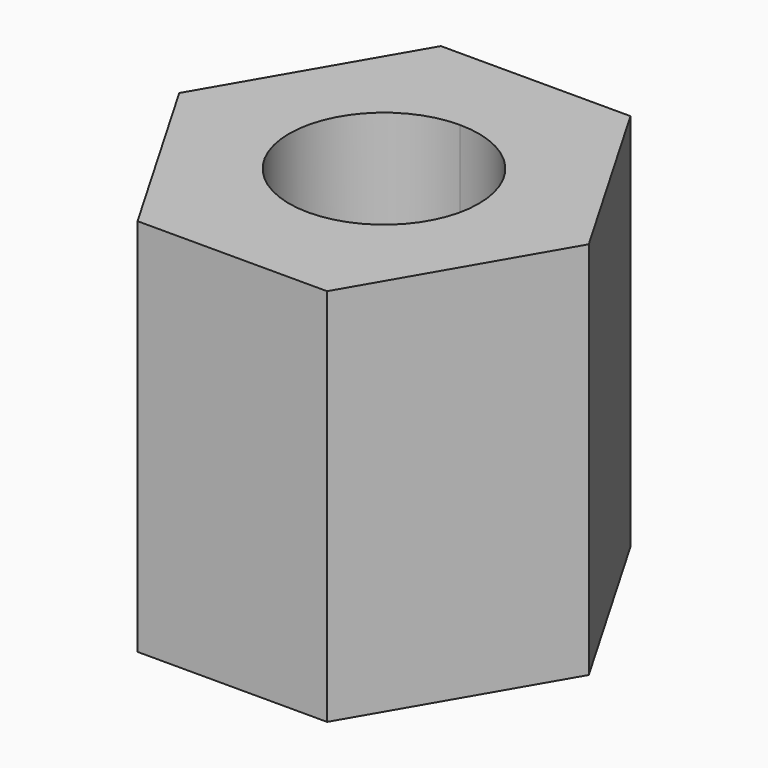
from build123d import *

# Parameters (mm, degrees)
F1_DEPTH = 25.4


with BuildPart() as f1:
    # F0 (on Top) → F1 (new body)
    with BuildSketch(Plane.XY):
        with BuildLine():
            ThreePointArc((0, -6.35), (-6.35, 0), (0, 6.35))
            Line((0, 6.35), (0, 12.7))
            Line((0, 12.7), (-6.35, 12.7))
            Line((-6.35, 12.7), (-13.716, 0))
            Line((-13.716, 0), (-6.35, -12.7))
            Line((-6.35, -12.7), (0, -12.7))
            Line((0, -12.7), (0, -6.35))
        make_face()
        with BuildLine():
            Line((0, 12.7), (0, 6.35))
            ThreePointArc((0, 6.35), (4.490128, 4.490128), (6.35, 0))
            ThreePointArc((6.35, 0), (4.490128, -4.490128), (0, -6.35))
            Line((0, -6.35), (0, -12.7))
            Line((0, -12.7), (6.35, -12.7))
            Line((6.35, -12.7), (13.716, 0))
            Line((13.716, 0), (6.35, 12.7))
            Line((6.35, 12.7), (0, 12.7))
        make_face()
    extrude(amount=F1_DEPTH)


solid = f1.part
